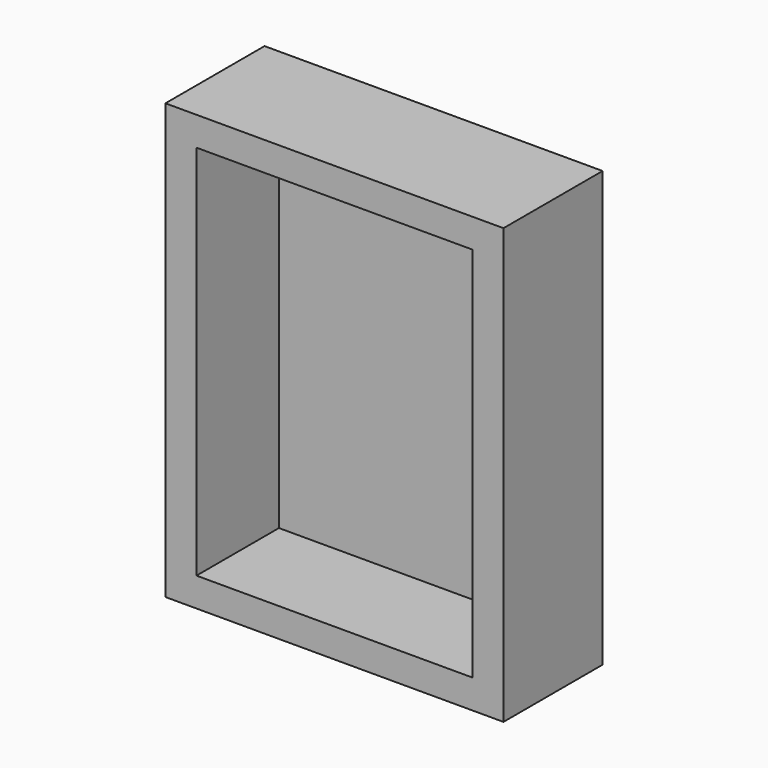
from build123d import *

# Parameters (mm, degrees)
F0_W     = 70
F0_H     = 90
F0_W_2   = 57.129424
F0_H_2   = 78.007258
F1_DEPTH = 25.654
F2_W     = 70
F2_H     = 90
F3_DEPTH = 4.318


with BuildPart() as f1:
    # F0 (on Front) → F1 (new body)
    with BuildSketch(Plane.XZ):
        Rectangle(F0_W, F0_H)
        Rectangle(F0_W_2, F0_H_2, mode=Mode.SUBTRACT)
    extrude(amount=F1_DEPTH)

    # F2 (on Front) → F3 (join)
    with BuildSketch(Plane.XZ):
        Rectangle(F2_W, F2_H)
    extrude(amount=F3_DEPTH)


solid = f1.part
